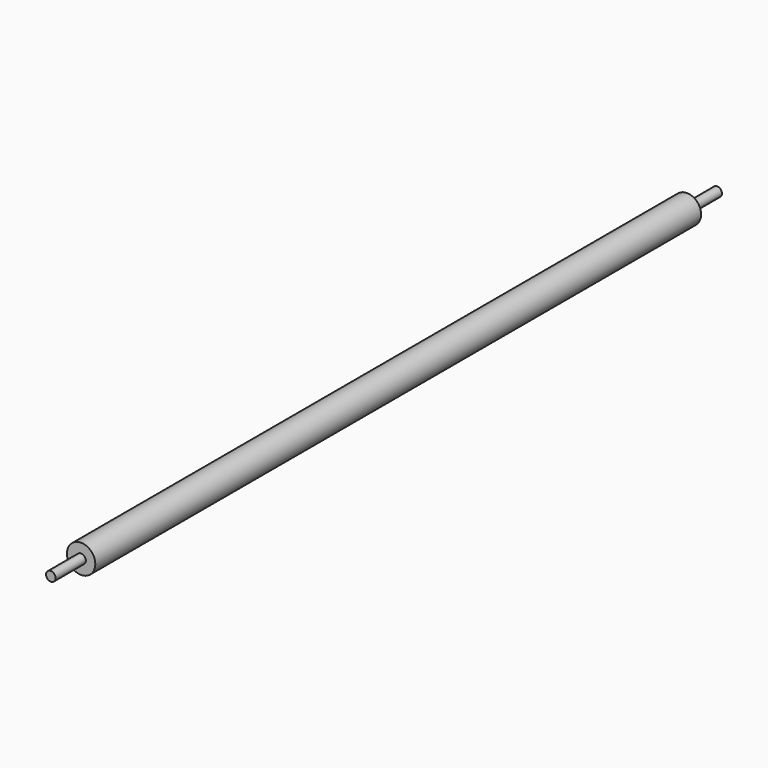
from build123d import *

# Parameters (mm, degrees)
F0_R     = 38.1
F1_DEPTH = 2235.2
F2_R     = 38.1
F2_R_2   = 12.7
F3_DEPTH = 101.6
F4_R     = 38.1
F4_R_2   = 12.7
F5_DEPTH = 101.6


with BuildPart() as f1:
    # F0 (on Front) → F1 (new body)
    with BuildSketch(Plane.XZ):
        Circle(F0_R)
    extrude(amount=F1_DEPTH)

    # F2 (on face) → F3 (cut)
    with BuildSketch(Plane.XZ.offset(2235.2)):
        Circle(F2_R)
        Circle(F2_R_2, mode=Mode.SUBTRACT)
    extrude(amount=-F3_DEPTH, mode=Mode.SUBTRACT)

    # F4 (on face) → F5 (cut)
    with BuildSketch(Plane(origin=(0, 0, 0), x_dir=(-1, 0, 0), z_dir=(0, 1, 0))):
        Circle(F4_R)
        Circle(F4_R_2, mode=Mode.SUBTRACT)
    extrude(amount=-F5_DEPTH, mode=Mode.SUBTRACT)


solid = f1.part
